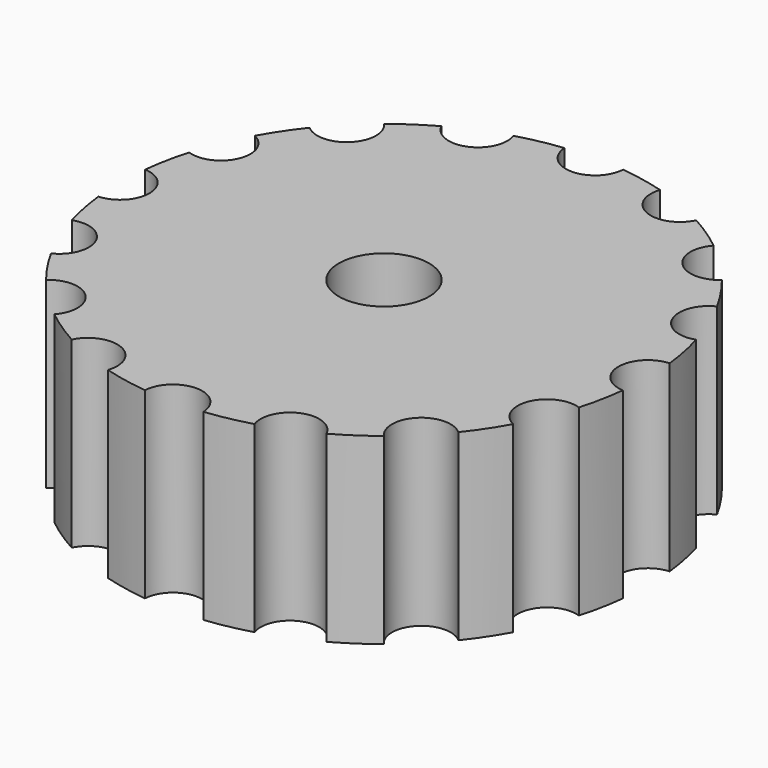
from build123d import *

# Parameters (mm, degrees)
F0_R     = 9.144
F1_DEPTH = 6.35
F2_R     = 1.5621
F3_DEPTH = 6.351
F4_SIZE2 = 1.244969
F4_SIZE  = 1.778
F5_R     = 1.016
F6_DEPTH = 6.351


with BuildPart() as f1:
    # F0 (on Top) → F1 (new body)
    with BuildSketch(Plane.XY):
        Circle(F0_R)
    extrude(amount=F1_DEPTH)

    # F2 (on face) → F3 (cut, through all)
    with BuildSketch(Plane.XY.offset(6.35)):
        Circle(F2_R)
    extrude(amount=-F3_DEPTH, mode=Mode.SUBTRACT)

    # F4
    f4_edges = [f1.edges().sort_by_distance(p)[0] for p in [
        (-1.5621, 0, 0),
    ]]
    chamfer(f4_edges, length=F4_SIZE, length2=F4_SIZE2)

    # F5 (on face) → F6 (cut, through all)
    with BuildSketch(Plane.XY.offset(6.35)):
        with BuildLine():
            ThreePointArc((0, 8.128), (0.71842, 8.42558), (1.016, 9.144))
            ThreePointArc((1.016, 9.144), (-0.71842, 9.86242), (0, 8.128))
        make_face()
        with Locations((-3.499257, 8.447954)):
            Circle(F5_R)
        with Locations((-6.465784, 6.465784)):
            Circle(F5_R)
        with Locations((-8.447954, 3.499257)):
            Circle(F5_R)
        with Locations((-9.144, 0)):
            Circle(F5_R)
        with Locations((-8.447954, -3.499257)):
            Circle(F5_R)
        with Locations((-6.465784, -6.465784)):
            Circle(F5_R)
        with Locations((-3.499257, -8.447954)):
            Circle(F5_R)
        with Locations((0, -9.144)):
            Circle(F5_R)
        with Locations((3.499257, -8.447954)):
            Circle(F5_R)
        with Locations((6.465784, -6.465784)):
            Circle(F5_R)
        with Locations((8.447954, -3.499257)):
            Circle(F5_R)
        with Locations((9.144, 0)):
            Circle(F5_R)
        with Locations((8.447954, 3.499257)):
            Circle(F5_R)
        with Locations((6.465784, 6.465784)):
            Circle(F5_R)
        with Locations((3.499257, 8.447954)):
            Circle(F5_R)
    extrude(amount=-F6_DEPTH, mode=Mode.SUBTRACT)


solid = f1.part
